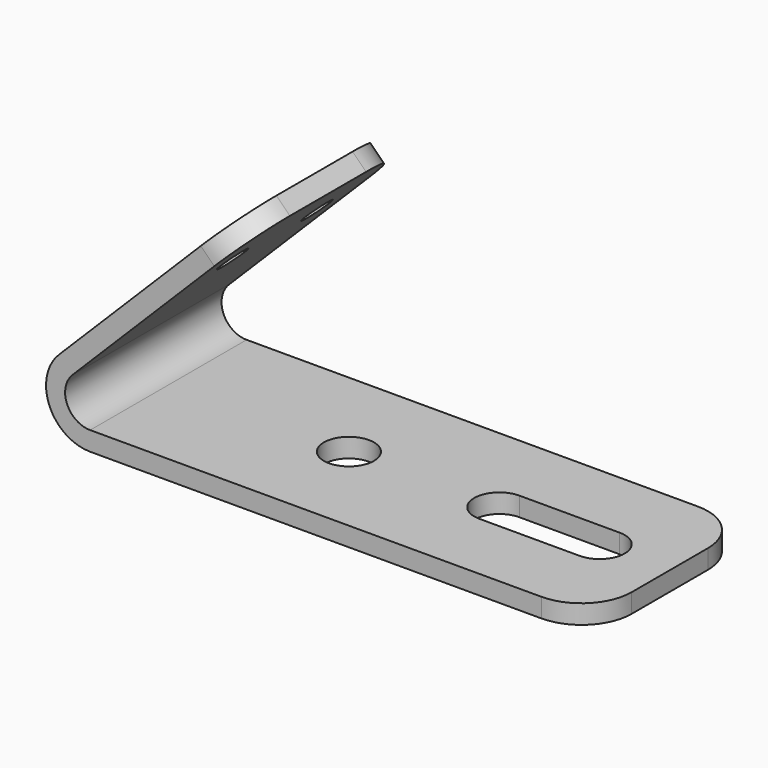
from build123d import *

# Parameters (mm, degrees)
F1_DEPTH = 9.75
F2_R     = 2.5
F3_DEPTH = 2
F4_R     = 1.5
F5_DEPTH = 2
F6_R     = 5


with BuildPart() as f1:
    # F0 (on Front) → F1 (new body, symmetric)
    with BuildSketch(Plane.XZ):
        with BuildLine():
            Line((14.5664, 20.788939), (-3.11127, 3.11127))
            ThreePointArc((-3.11127, 3.11127), (-4.06507, -1.683807), (0, -4.4))
            Line((0, -4.4), (50, -4.4))
            Line((50, -4.4), (50, -2.5))
            Line((50, -2.5), (0, -2.5))
            ThreePointArc((0, -2.5), (-2.309699, -0.956709), (-1.767767, 1.767767))
            Line((-1.767767, 1.767767), (15.909903, 19.445436))
            Line((15.909903, 19.445436), (14.5664, 20.788939))
        make_face()
    extrude(amount=F1_DEPTH, both=True)

    # F2 (on face) → F3 (cut)
    with BuildSketch(Plane(origin=(0, 0, -4.4), x_dir=(1, 0, 0), z_dir=(0, 0, -1))):
        with Locations((18, 0)):
            Circle(F2_R)
        with BuildLine():
            Line((43, 2.5), (33, 2.5))
            ThreePointArc((33, 2.5), (30.5, 0), (33, -2.5))
            Line((33, -2.5), (43, -2.5))
            ThreePointArc((43, -2.5), (45.5, 0), (43, 2.5))
        make_face()
    extrude(amount=-F3_DEPTH, mode=Mode.SUBTRACT)

    # F4 (on face) → F5 (cut)
    with BuildSketch(Plane(origin=(-3.11127, 0, 3.11127), x_dir=(0, -1, 0), z_dir=(-0.707107, 0, 0.707107))):
        with Locations((-5.25, 17.5)):
            Circle(F4_R)
        with Locations((5.25, 17.5)):
            Circle(F4_R)
    extrude(amount=-F5_DEPTH, mode=Mode.SUBTRACT)

    # F6
    f6_edges = [f1.edges().sort_by_distance(p)[0] for p in [
        (15.238151, -9.75, 20.117188),
        (15.238151, 9.75, 20.117188),
        (50, 9.75, -3.45),
        (50, -9.75, -3.45),
    ]]
    fillet(f6_edges, radius=F6_R)


solid = f1.part
